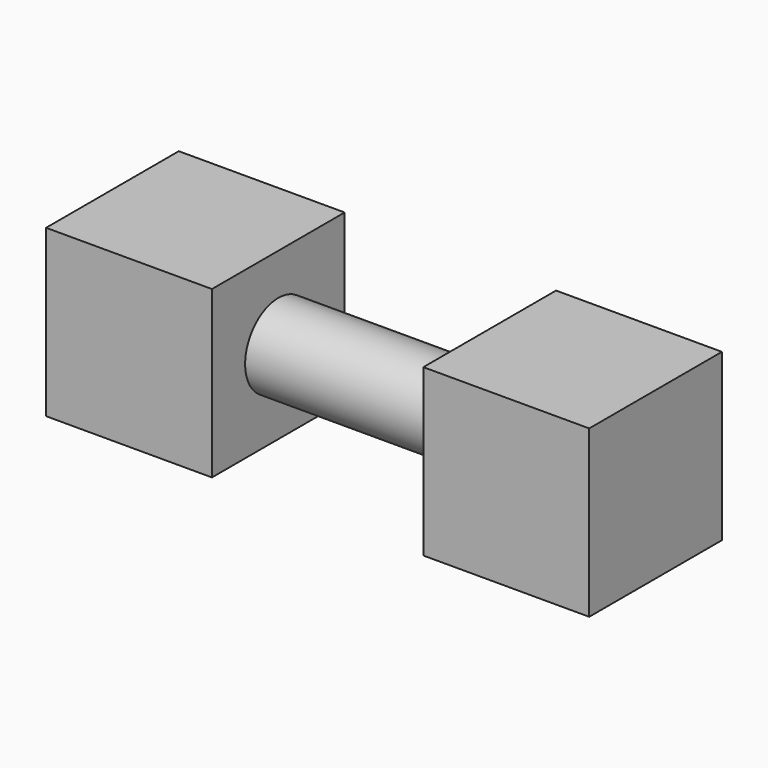
from build123d import *

# Parameters (mm, degrees)
F0_W     = 50
F0_H     = 50
F1_DEPTH = 50
F2_W     = 50
F2_H     = 50
F3_DEPTH = 50
F4_R     = 12.5
F5_DEPTH = 63.726814


with BuildPart() as f1:
    # F0 (on Top) → F1 (new body)
    with BuildSketch(Plane.XY):
        with Locations((-42.158758, 37.118042)):
            Rectangle(F0_W, F0_H)
    extrude(amount=F1_DEPTH)



with BuildPart() as f3:
    # F2 (on Top) → F3 (new body, through all)
    with BuildSketch(Plane.XY):
        with Locations((71.568055, 37.118042)):
            Rectangle(F2_W, F2_H)
    extrude(amount=F3_DEPTH)


with BuildPart() as f1_1:
    add(f1.part)

    add(f3.part)  # F5 merges F3
    # F4 (on face) → F5 (join, through all)
    with BuildSketch(Plane.YZ.offset(-17.158758)):
        with Locations((37.118042, 25)):
            Circle(F4_R)
    extrude(amount=F5_DEPTH)


solid = f1_1.part
